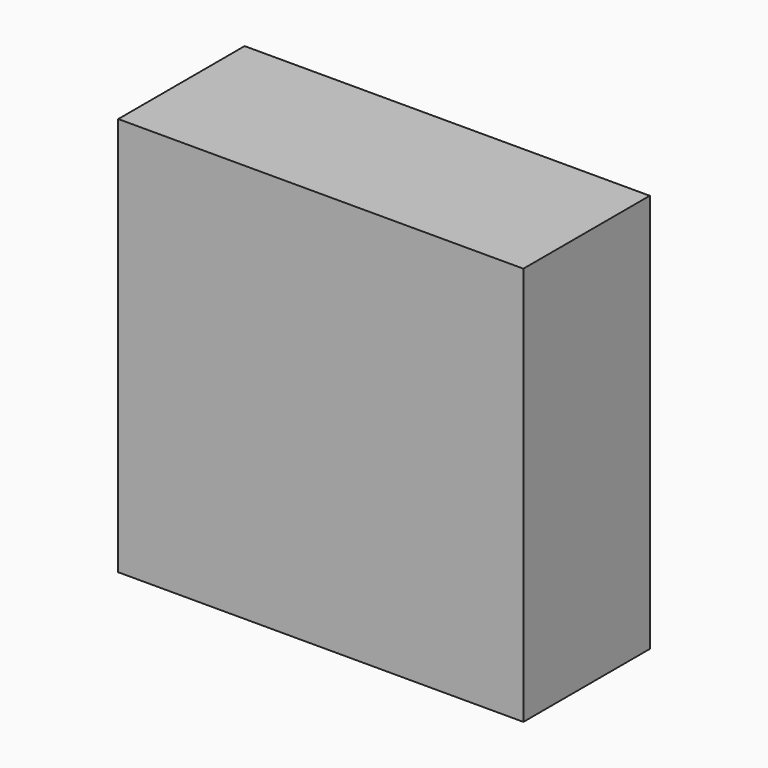
from build123d import *

# Parameters (mm, degrees)
F0_W     = 96.186884
F0_H     = 94.729506
F1_DEPTH = 25
F2_W     = 11.076067
F2_H     = 8.452787
F3_DEPTH = 1
F4_W     = 96.186884
F4_H     = 94.729506
F5_DEPTH = 12.5
F6_R     = 1.955277
F7_DEPTH = 12.5


with BuildPart() as f1:
    # F0 (on Front) → F1 (new body)
    with BuildSketch(Plane.XZ):
        Rectangle(F0_W, F0_H)
    extrude(amount=-F1_DEPTH)

    # F2 (on face) → F3 (join)
    with BuildSketch(Plane(origin=(-48.093442, 0, 0), x_dir=(0, -1, 0), z_dir=(-1, 0, 0))):
        with Locations((-13.99082, 4.226393)):
            Rectangle(F2_W, F2_H)
    extrude(amount=F3_DEPTH)

    # F4 (on face) → F5 (join, symmetric)
    with BuildSketch(Plane(origin=(0, 25, 0), x_dir=(-1, 0, 0), z_dir=(0, 1, 0))):
        Rectangle(F4_W, F4_H)
    extrude(amount=F5_DEPTH, both=True)

    # F6 (on face) → F7 (cut, symmetric)
    with BuildSketch(Plane(origin=(-48.093442, 0, 0), x_dir=(0, -1, 0), z_dir=(-1, 0, 0))):
        with Locations((-13.99082, 4.809345)):
            Circle(F6_R)
    extrude(amount=F7_DEPTH, both=True, mode=Mode.SUBTRACT)


solid = f1.part
